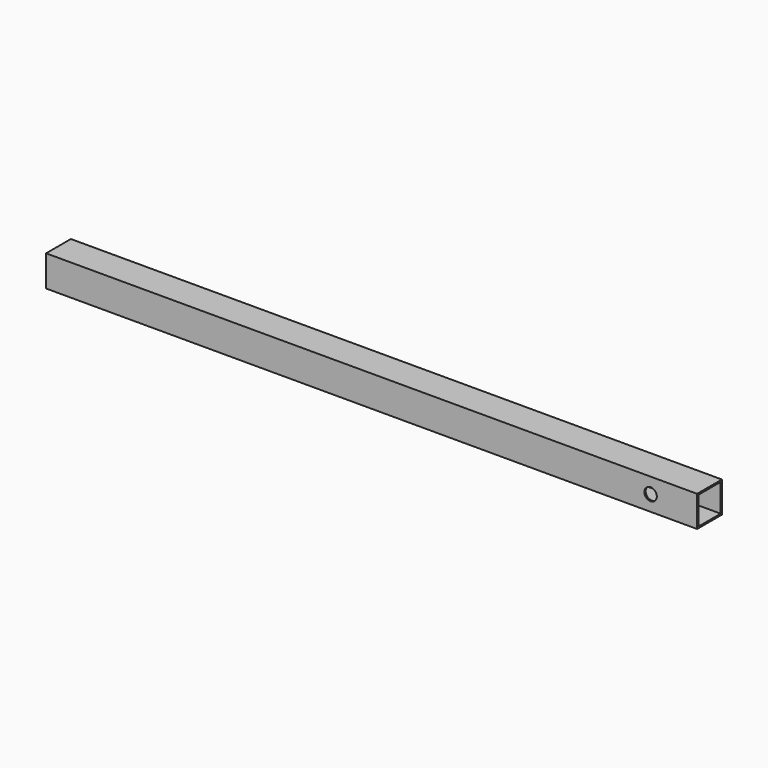
from build123d import *

# Parameters (mm, degrees)
F0_W     = 100
F0_H     = 100
F0_W_2   = 90
F0_H_2   = 90
F1_DEPTH = 2100
F2_R     = 20
F3_DEPTH = 100


with BuildPart() as f1:
    # F0 (on Right) → F1 (new body)
    with BuildSketch(Plane.YZ):
        Rectangle(F0_W, F0_H)
        Rectangle(F0_W_2, F0_H_2, mode=Mode.SUBTRACT)
    extrude(amount=F1_DEPTH)

    # F2 (on face) → F3 (cut)
    with BuildSketch(Plane.XZ.offset(50)):
        with Locations((1950, 0)):
            Circle(F2_R)
    extrude(amount=-F3_DEPTH, mode=Mode.SUBTRACT)


solid = f1.part
